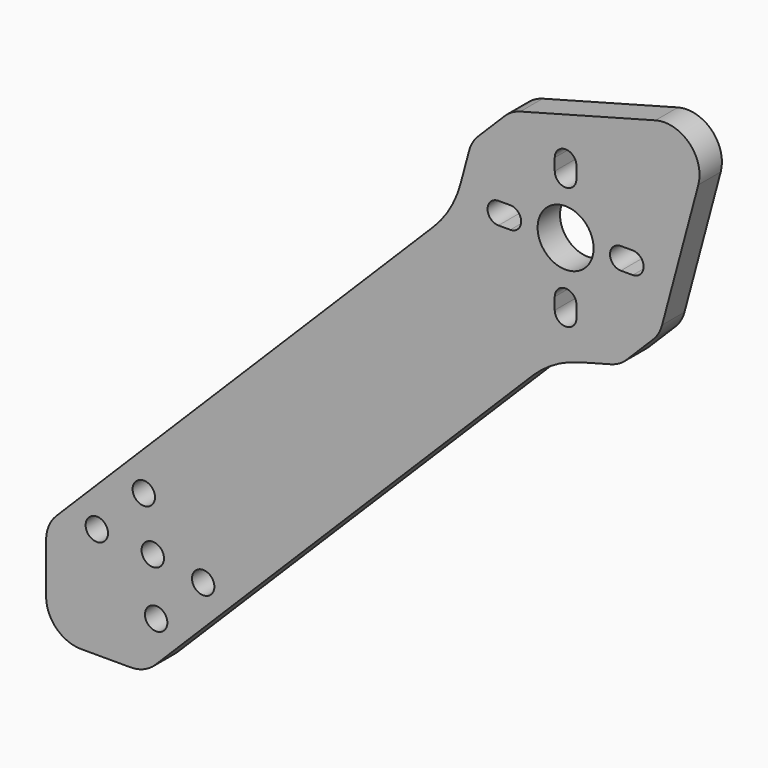
from build123d import *

# Parameters (mm, degrees)
F0_R     = 1.6
F0_R_2   = 4
F1_DEPTH = 4


with BuildPart() as f1:
    # F0 (on Front) → F1 (new body)
    with BuildSketch(Plane.XZ):
        with BuildLine():
            Line((55.367359, 69.509495), (1.464466, 15.606602))
            ThreePointArc((1.464466, 15.606602), (0.380602, 13.984485), (0, 12.071068))
            Line((0, 12.071068), (0, 5))
            ThreePointArc((0, 5), (1.464466, 1.464466), (5, 0))
            Line((5, 0), (12.071068, 0))
            ThreePointArc((12.071068, 0), (13.984485, 0.380602), (15.606602, 1.464466))
            Line((15.606602, 1.464466), (69.509495, 55.367359))
            ThreePointArc((69.509495, 55.367359), (72.616096, 57.751138), (76.233811, 59.249645))
            Line((76.233811, 59.249645), (80.716688, 60.450828))
            ThreePointArc((80.716688, 60.450828), (81.922593, 60.95033), (82.958127, 61.744923))
            Line((82.958127, 61.744923), (86.747501, 65.534297))
            ThreePointArc((86.747501, 65.534297), (87.542094, 66.569831), (88.041596, 67.775736))
            Line((88.041596, 67.775736), (93.217977, 87.094252))
            ThreePointArc((93.217977, 87.094252), (91.923882, 91.923882), (87.094252, 93.217977))
            Line((87.094252, 93.217977), (67.775736, 88.041596))
            ThreePointArc((67.775736, 88.041596), (66.569831, 87.542094), (65.534297, 86.747501))
            Line((65.534297, 86.747501), (61.744923, 82.958127))
            ThreePointArc((61.744923, 82.958127), (60.95033, 81.922593), (60.450828, 80.716688))
            Line((60.450828, 80.716688), (59.249645, 76.233811))
            ThreePointArc((59.249645, 76.233811), (57.751138, 72.616096), (55.367359, 69.509495))
        make_face()
        with Locations((15.734, 7.322)):
            Circle(F0_R, mode=Mode.SUBTRACT)
        with Locations((7.249, 15.807)):
            Circle(F0_R, mode=Mode.SUBTRACT)
        with Locations((15.25, 15.25)):
            Circle(F0_R, mode=Mode.SUBTRACT)
        with Locations((22.452, 14.039)):
            Circle(F0_R, mode=Mode.SUBTRACT)
        with Locations((13.966, 22.524)):
            Circle(F0_R, mode=Mode.SUBTRACT)
        with BuildLine():
            ThreePointArc((75.796212, 64.646212), (74.246212, 63.096212), (72.696212, 64.646212))
            Line((72.696212, 64.646212), (72.696212, 66.346212))
            ThreePointArc((72.696212, 66.346212), (74.246212, 67.896212), (75.796212, 66.346212))
            Line((75.796212, 66.346212), (75.796212, 64.646212))
        make_face(mode=Mode.SUBTRACT)
        with BuildLine():
            ThreePointArc((64.646212, 72.696212), (63.096212, 74.246212), (64.646212, 75.796212))
            Line((64.646212, 75.796212), (66.346212, 75.796212))
            ThreePointArc((66.346212, 75.796212), (67.896212, 74.246212), (66.346212, 72.696212))
            Line((66.346212, 72.696212), (64.646212, 72.696212))
        make_face(mode=Mode.SUBTRACT)
        with Locations((74.246212, 74.246212)):
            Circle(F0_R_2, mode=Mode.SUBTRACT)
        with BuildLine():
            ThreePointArc((83.846212, 75.796212), (85.396212, 74.246212), (83.846212, 72.696212))
            Line((83.846212, 72.696212), (82.146212, 72.696212))
            ThreePointArc((82.146212, 72.696212), (80.596212, 74.246212), (82.146212, 75.796212))
            Line((82.146212, 75.796212), (83.846212, 75.796212))
        make_face(mode=Mode.SUBTRACT)
        with BuildLine():
            ThreePointArc((72.696212, 83.846212), (74.246212, 85.396212), (75.796212, 83.846212))
            Line((75.796212, 83.846212), (75.796212, 82.146212))
            ThreePointArc((75.796212, 82.146212), (74.246212, 80.596212), (72.696212, 82.146212))
            Line((72.696212, 82.146212), (72.696212, 83.846212))
        make_face(mode=Mode.SUBTRACT)
    extrude(amount=F1_DEPTH)


solid = f1.part
